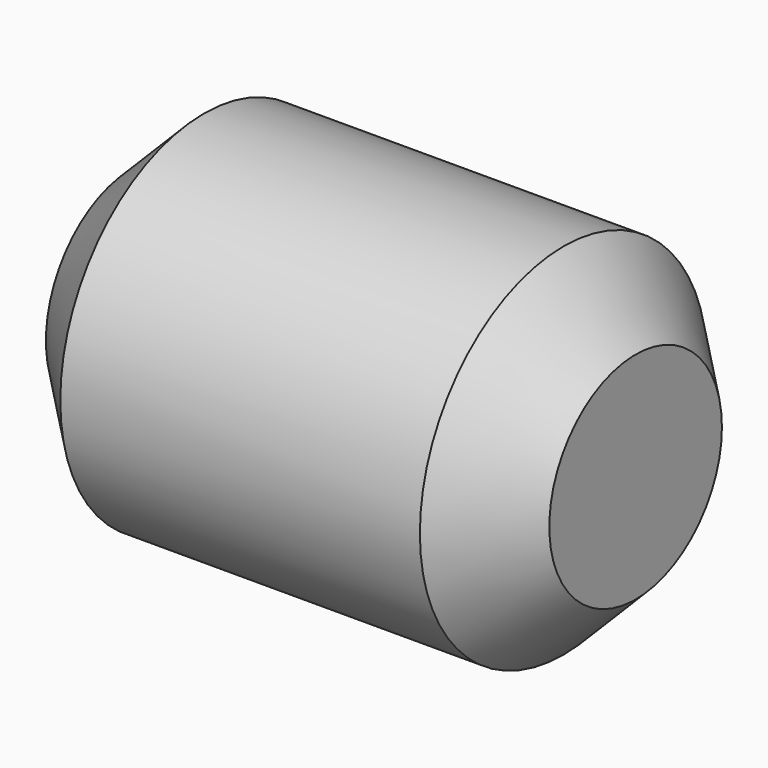
from build123d import *

# Parameters (mm, degrees)
F0_R     = 63.5
F1_DEPTH = 177.8
F2_R     = 25.4
F3_DEPTH = 76.2
F4_SIZE  = 25.4


with BuildPart() as f1:
    # F0 (on Right) → F1 (new body)
    with BuildSketch(Plane.YZ):
        Circle(F0_R)
    extrude(amount=F1_DEPTH)

    # F2 (on face) → F3 (cut)
    with BuildSketch(Plane(origin=(0, 0, 0), x_dir=(0, -1, 0), z_dir=(-1, 0, 0))):
        Circle(F2_R)
    extrude(amount=-F3_DEPTH, mode=Mode.SUBTRACT)

    # F4
    f4_edges = [f1.edges().sort_by_distance(p)[0] for p in [
        (0, -63.5, 0),
        (177.8, -63.5, 0),
    ]]
    chamfer(f4_edges, length=F4_SIZE)


solid = f1.part
